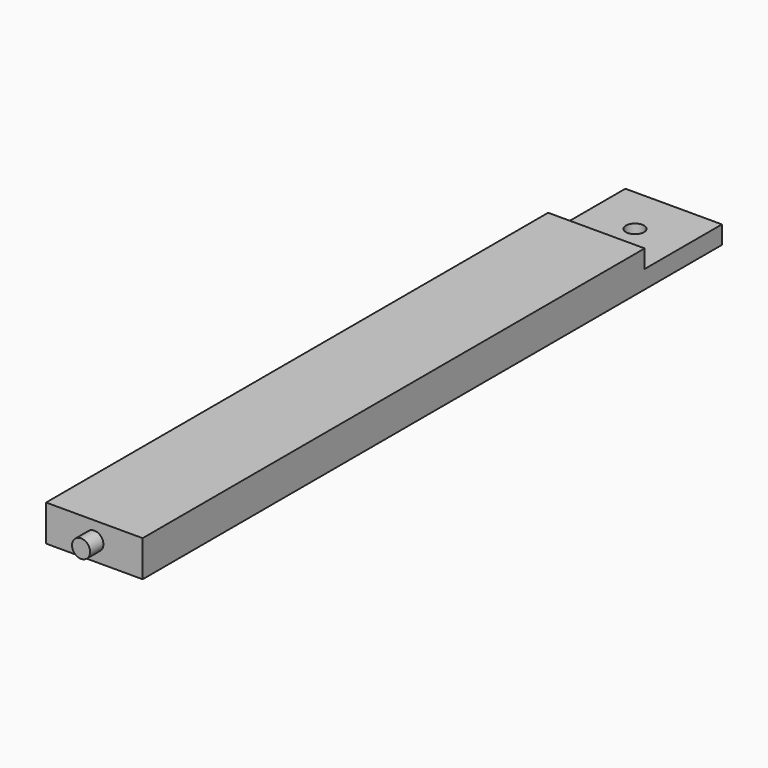
from build123d import *

# Parameters (mm, degrees)
F1_DEPTH = 25.4
F2_R     = 4.7625
F3_DEPTH = 25.4
F5_R     = 4.7625
F6_DEPTH = 9.525


with BuildPart() as f1:
    # F0 (on Right) → F1 (new body, symmetric)
    with BuildSketch(Plane.YZ):
        Polygon((310.379616, 9.525), (-19.820384, 9.525), (-19.820384, -9.525), (361.179616, -9.525), (361.179616, 0), (310.379616, 0), align=None)
    extrude(amount=F1_DEPTH, both=True)

    # F2 (on Top) → F3 (cut)
    with BuildSketch(Plane.XY):
        with Locations((0, 335.779616)):
            Circle(F2_R)
    extrude(amount=-F3_DEPTH, mode=Mode.SUBTRACT)

    # F5 (on offset) → F6 (join)
    with BuildSketch(Plane.XZ.offset(19.05)):
        Circle(F5_R)
    extrude(amount=F6_DEPTH)


solid = f1.part
